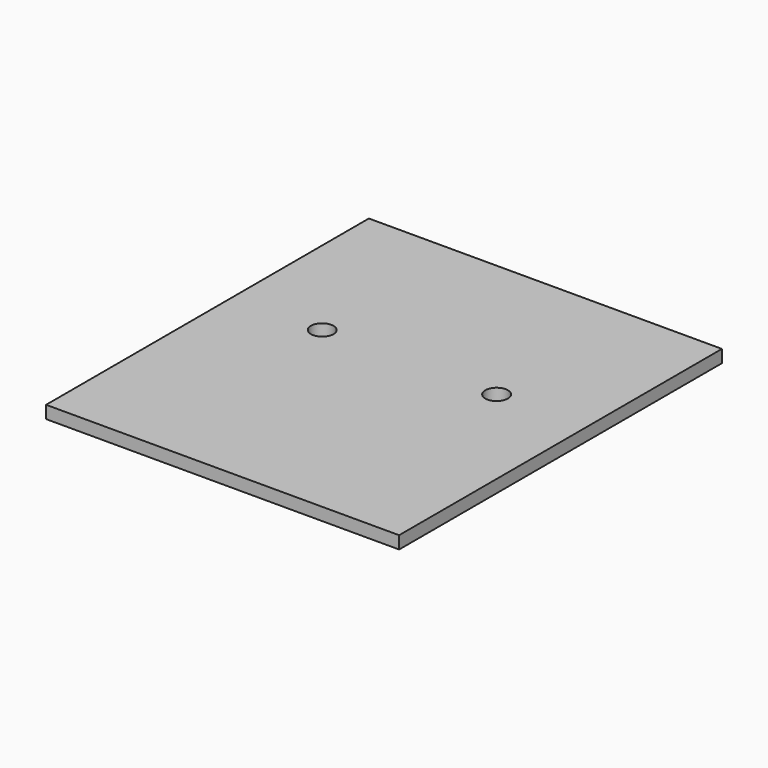
from build123d import *

# Parameters (mm, degrees)
F0_W     = 88.9
F0_H     = 101.6
F0_R     = 18.288
F0_R_2   = 10.2489
F0_R_3   = 2.8448
F1_DEPTH = 3.175


with BuildPart() as f1:
    # F0 (on Top) → F1 (new body)
    with BuildSketch(Plane.XY):
        Rectangle(F0_W, F0_H)
        with Locations((-21.9596195966, 7.9963849857)):
            Circle(F0_R, mode=Mode.SUBTRACT)
        with Locations((21.9596195966, 7.9963849857)):
            Circle(F0_R, mode=Mode.SUBTRACT)
        with Locations((-21.9596195966, 7.9963849857)):
            Circle(F0_R)
        with Locations((-21.9596195966, 7.9963849857)):
            Circle(F0_R_2, mode=Mode.SUBTRACT)
        with Locations((21.9596195966, 7.9963849857)):
            Circle(F0_R)
        with Locations((21.9596195966, 7.9963849857)):
            Circle(F0_R_2, mode=Mode.SUBTRACT)
        with Locations((-21.9596195966, 7.9963849857)):
            Circle(F0_R_2)
        with Locations((-21.9596195966, 7.9963849857)):
            Circle(F0_R_3, mode=Mode.SUBTRACT)
        with Locations((21.9596195966, 7.9963849857)):
            Circle(F0_R_2)
        with Locations((21.9596195966, 7.9963849857)):
            Circle(F0_R_3, mode=Mode.SUBTRACT)
    extrude(amount=F1_DEPTH)


solid = f1.part
